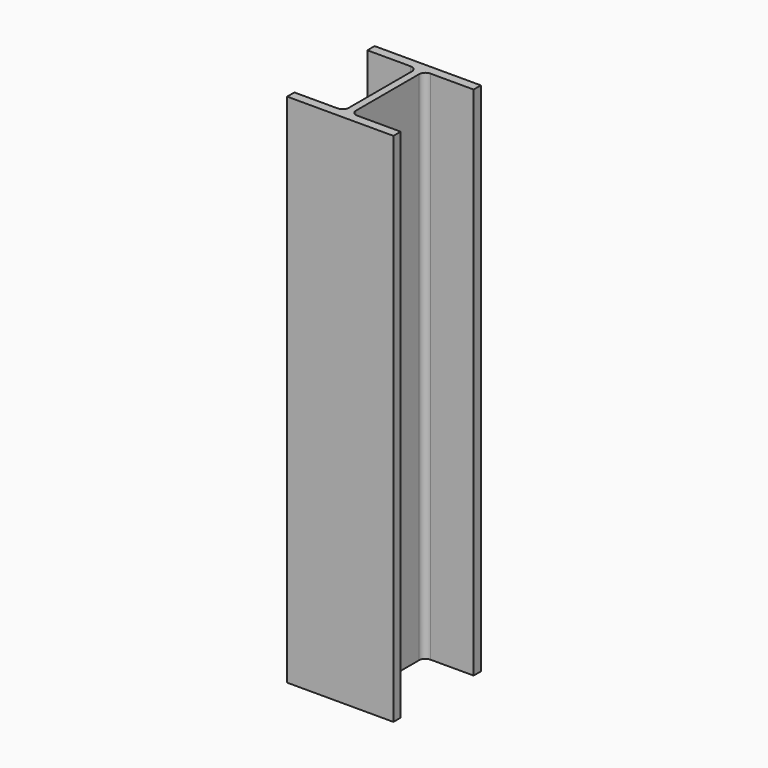
from build123d import *

# Parameters (mm, degrees)
F1_DEPTH = 500


with BuildPart() as f1:
    # F0 (on Top) → F1 (new body)
    with BuildSketch(Plane.XY):
        with BuildLine():
            Line((-55.05, 8.8), (-51.5, 8.8))
            Line((-51.5, 8.8), (-51.5, 97.2))
            Line((-51.5, 97.2), (-51.5, 106))
            Line((-51.5, 106), (-103, 106))
            Line((-103, 106), (-103, 97.2))
            Line((-103, 97.2), (-61.05, 97.2))
            ThreePointArc((-61.05, 97.2), (-56.807359, 95.442641), (-55.05, 91.2))
            Line((-55.05, 91.2), (-55.05, 14.8))
            ThreePointArc((-55.05, 14.8), (-56.807359, 10.557359), (-61.05, 8.8))
            Line((-61.05, 8.8), (-55.05, 8.8))
        make_face()
        with BuildLine():
            Line((-51.5, 97.2), (-51.5, 8.8))
            Line((-51.5, 8.8), (-47.95, 8.8))
            Line((-47.95, 8.8), (-41.95, 8.8))
            ThreePointArc((-41.95, 8.8), (-46.192641, 10.557359), (-47.95, 14.8))
            Line((-47.95, 14.8), (-47.95, 91.2))
            ThreePointArc((-47.95, 91.2), (-46.192641, 95.442641), (-41.95, 97.2))
            Line((-41.95, 97.2), (0, 97.2))
            Line((0, 97.2), (0, 106))
            Line((0, 106), (-51.5, 106))
            Line((-51.5, 106), (-51.5, 97.2))
        make_face()
        Polygon((-51.5, 0), (0, 0), (0, 8.8), (-41.95, 8.8), (-47.95, 8.8), (-51.5, 8.8), align=None)
        Polygon((-103, 0), (-51.5, 0), (-51.5, 8.8), (-55.05, 8.8), (-61.05, 8.8), (-103, 8.8), align=None)
    extrude(amount=F1_DEPTH)


solid = f1.part
